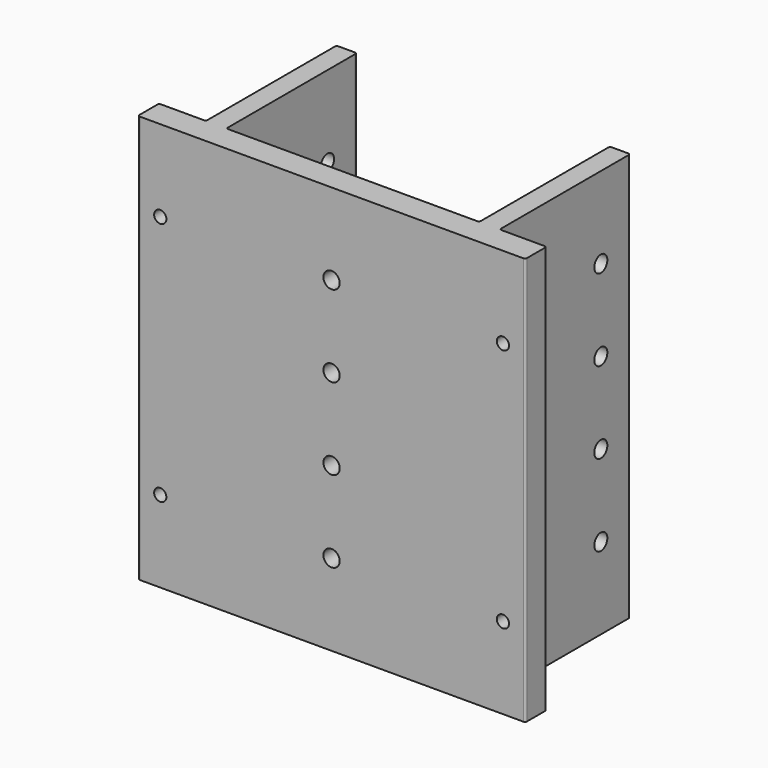
from build123d import *

# Parameters (mm, degrees)
F1_DEPTH = 100
F2_R     = 2
F3_DEPTH = 72
F4_R     = 2
F4_R_2   = 1.5
F5_DEPTH = 6.5


with BuildPart() as f1:
    # F0 (on Top) → F1 (new body)
    with BuildSketch(Plane.XY):
        with BuildLine():
            ThreePointArc((0, 0.5), (0.146447, 0.146447), (0.5, 0))
            Line((0.5, 0), (94.5, 0))
            ThreePointArc((94.5, 0), (94.853553, 0.146447), (95, 0.5))
            Line((95, 0.5), (95, 6))
            ThreePointArc((95, 6), (94.853553, 6.353553), (94.5, 6.5))
            Line((94.5, 6.5), (84, 6.5))
            ThreePointArc((84, 6.5), (83.646447, 6.646447), (83.5, 7))
            Line((83.5, 7), (83.5, 46))
            ThreePointArc((83.5, 46), (83.353553, 46.353553), (83, 46.5))
            Line((83, 46.5), (79, 46.5))
            ThreePointArc((79, 46.5), (78.646447, 46.353553), (78.5, 46))
            Line((78.5, 46), (78.5, 7))
            ThreePointArc((78.5, 7), (78.353553, 6.646447), (78, 6.5))
            Line((78, 6.5), (17, 6.5))
            ThreePointArc((17, 6.5), (16.646447, 6.646447), (16.5, 7))
            Line((16.5, 7), (16.5, 46))
            ThreePointArc((16.5, 46), (16.353553, 46.353553), (16, 46.5))
            Line((16, 46.5), (12, 46.5))
            ThreePointArc((12, 46.5), (11.646447, 46.353553), (11.5, 46))
            Line((11.5, 46), (11.5, 7))
            ThreePointArc((11.5, 7), (11.353553, 6.646447), (11, 6.5))
            Line((11, 6.5), (0.5, 6.5))
            ThreePointArc((0.5, 6.5), (0.146447, 6.353553), (0, 6))
            Line((0, 6), (0, 0.5))
        make_face()
    extrude(amount=F1_DEPTH)

    # F2 (on face) → F3 (cut, through all)
    with BuildSketch(Plane.YZ.offset(83.5)):
        with Locations((37.5, 80)):
            Circle(F2_R)
        with Locations((37.5, 60)):
            Circle(F2_R)
        with Locations((37.5, 40)):
            Circle(F2_R)
        with Locations((37.5, 20)):
            Circle(F2_R)
    extrude(amount=-F3_DEPTH, mode=Mode.SUBTRACT)

    # F4 (on face) → F5 (cut, through all)
    with BuildSketch(Plane(origin=(0, 6.5, 0), x_dir=(-1, 0, 0), z_dir=(0, 1, 0))):
        with Locations((-47.5, 80)):
            Circle(F4_R)
        with Locations((-47.5, 60)):
            Circle(F4_R)
        with Locations((-47.5, 40)):
            Circle(F4_R)
        with Locations((-47.5, 20)):
            Circle(F4_R)
        with Locations((-5.5, 80)):
            Circle(F4_R_2)
        with Locations((-5.5, 20)):
            Circle(F4_R_2)
        with Locations((-89.5, 80)):
            Circle(F4_R_2)
        with Locations((-89.5, 20)):
            Circle(F4_R_2)
    extrude(amount=-F5_DEPTH, mode=Mode.SUBTRACT)


solid = f1.part
